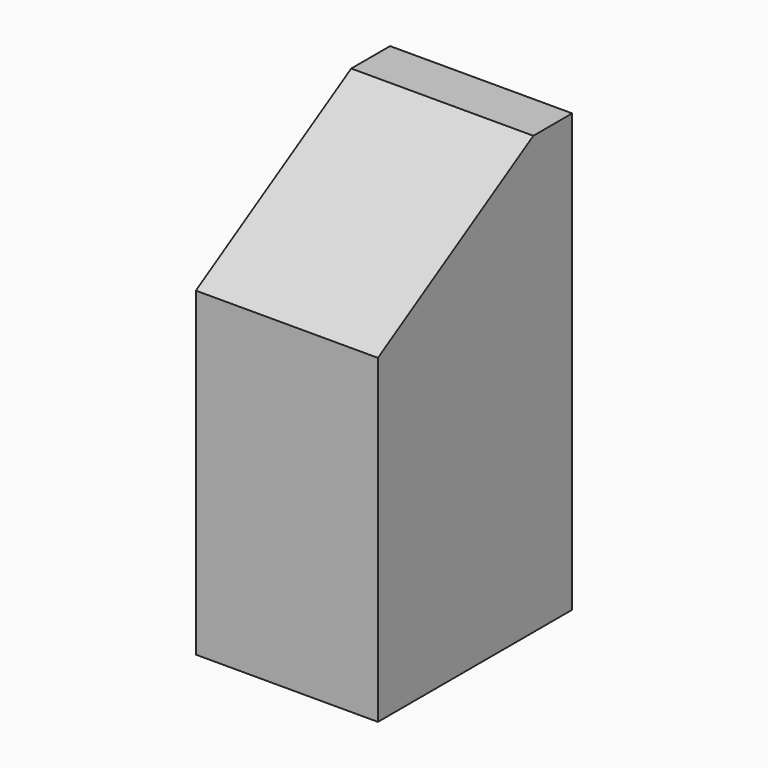
from build123d import *

# Parameters (mm, degrees)
SKETCH028_W     = 16
SKETCH028_H     = 16
PAD015_DEPTH    = 28.8
POCKET013_DEPTH = 16
SKETCH113_W     = 2
SKETCH113_H     = 16
POCKET029_DEPTH = 30
PAD136_DEPTH    = 12


with BuildPart() as part:
    # Sketch028 (on Face52 of Binder011) → Pad015 (new body)
    with BuildSketch(Plane.XY.offset(-28.8)):
        with Locations((32, -8)):
            Rectangle(SKETCH028_W, SKETCH028_H)
    extrude(amount=PAD015_DEPTH)

    # Sketch029 (on Face3 of Pad015) → Pocket013 (cut)
    with BuildSketch(Plane.YZ.offset(40)):
        Polygon((-16, 0), (-16, -9.6), (0, 0), align=None)
    extrude(amount=-POCKET013_DEPTH, mode=Mode.SUBTRACT)

    # Sketch113 (on Face2 of Pocket013) → Pocket029 (cut)
    with BuildSketch(Plane(origin=(0, 0, -28.8), x_dir=(1, 0, 0), z_dir=(0, 0, -1))):
        with Locations((25, 8)):
            Rectangle(SKETCH113_W, SKETCH113_H)
        with Locations((39, 8)):
            Rectangle(SKETCH113_W, SKETCH113_H)
    extrude(amount=-POCKET029_DEPTH, mode=Mode.SUBTRACT)

    # Sketch136 (on Face3 of Pocket029) → Pad136 (join)
    with BuildSketch(Plane.YZ.offset(38)):
        Polygon((0, 0), (-3.2, 0), (-16, -7.68), (-16, -10.88), (-3.2, -3.2), (0, -3.2), align=None)
    extrude(amount=-PAD136_DEPTH)


solid = part.part
